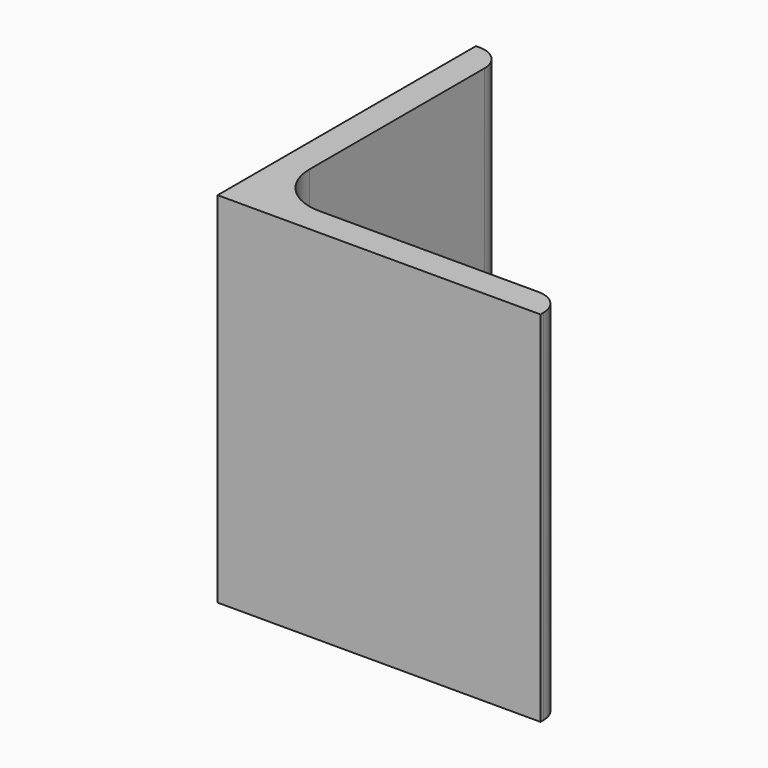
from build123d import *

# Parameters (mm, degrees)
EXTRUDE_DEPTH = 50


with BuildPart() as part:
    # Sketch → Extrude (new body)
    with BuildSketch(Plane.XY):
        with BuildLine():
            Line((0, 0), (45, 0))
            Line((45, 0), (45, 0.5))
            ThreePointArc((45, 0.5), (43.974874, 2.974874), (41.5, 4))
            Line((41.5, 4), (11, 4))
            ThreePointArc((4, 11), (6.050253, 6.050253), (11, 4))
            Line((4, 41.5), (4, 11))
            ThreePointArc((4, 41.5), (2.974874, 43.974874), (0.5, 45))
            Line((0, 45), (0.5, 45))
            Line((0, 0), (0, 45))
        make_face()
    extrude(amount=EXTRUDE_DEPTH)


solid = part.part
